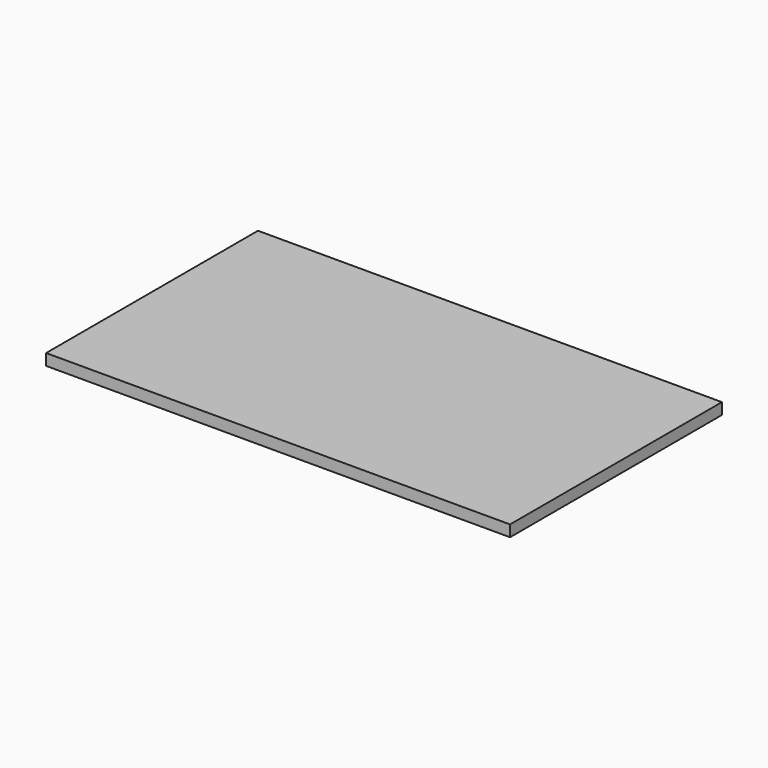
from build123d import *

# Parameters (mm, degrees)
F0_W     = 1228.4
F0_H     = 701.2
F1_DEPTH = 30
F2_W     = 1209.6
F2_H     = 680.4
F3_DEPTH = 2.5


with BuildPart() as f1:
    # F0 (on Top) → F1 (new body)
    with BuildSketch(Plane.XY):
        Rectangle(F0_W, F0_H)
    extrude(amount=F1_DEPTH)

    # F2 (on face) → F3 (cut, symmetric)
    with BuildSketch(Plane(origin=(0, 0, 0), x_dir=(1, 0, 0), z_dir=(0, 0, -1))):
        Rectangle(F2_W, F2_H)
    extrude(amount=-F3_DEPTH, both=True, mode=Mode.SUBTRACT)


solid = f1.part
